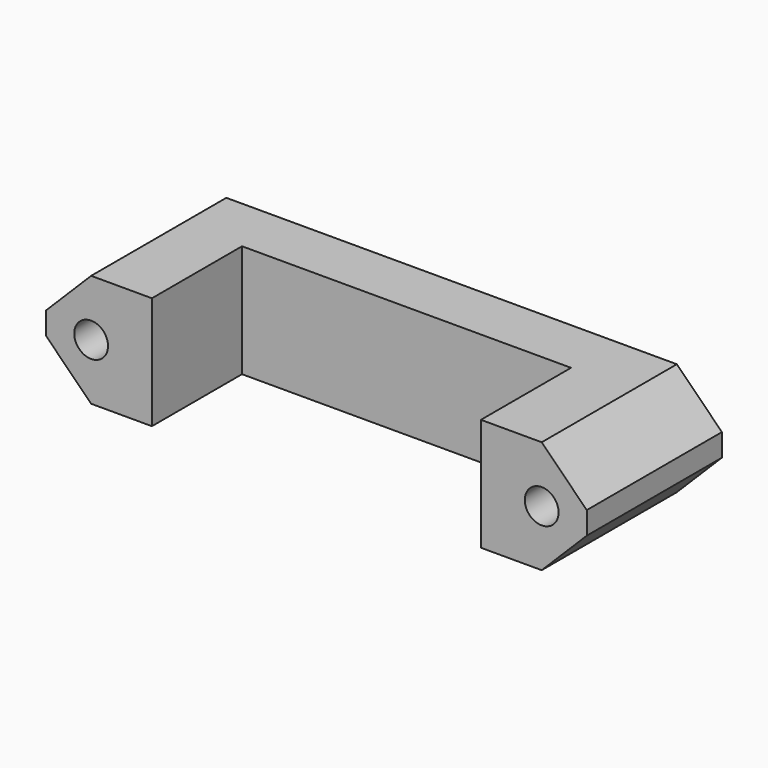
from build123d import *

# Parameters (mm, degrees)
F0_R     = 1.5
F1_DEPTH = 15
F2_W     = 29.21
F2_H     = 10
F3_DEPTH = 10.001


with BuildPart() as f1:
    # F0 (on Front) → F1 (new body)
    with BuildSketch(Plane.XZ):
        Polygon((0, 0), (20, 0), (24, 4), (24, 6), (20, 10), (0, 10), (-20, 10), (-24, 6), (-24, 4), (-20, 0), align=None)
        with Locations((-20, 5)):
            Circle(F0_R, mode=Mode.SUBTRACT)
        with Locations((20, 5)):
            Circle(F0_R, mode=Mode.SUBTRACT)
    extrude(amount=F1_DEPTH)

    # F2 (on Top) → F3 (cut, through all)
    with BuildSketch(Plane.XY):
        with Locations((0, -10)):
            Rectangle(F2_W, F2_H)
    extrude(amount=F3_DEPTH, mode=Mode.SUBTRACT)


solid = f1.part
